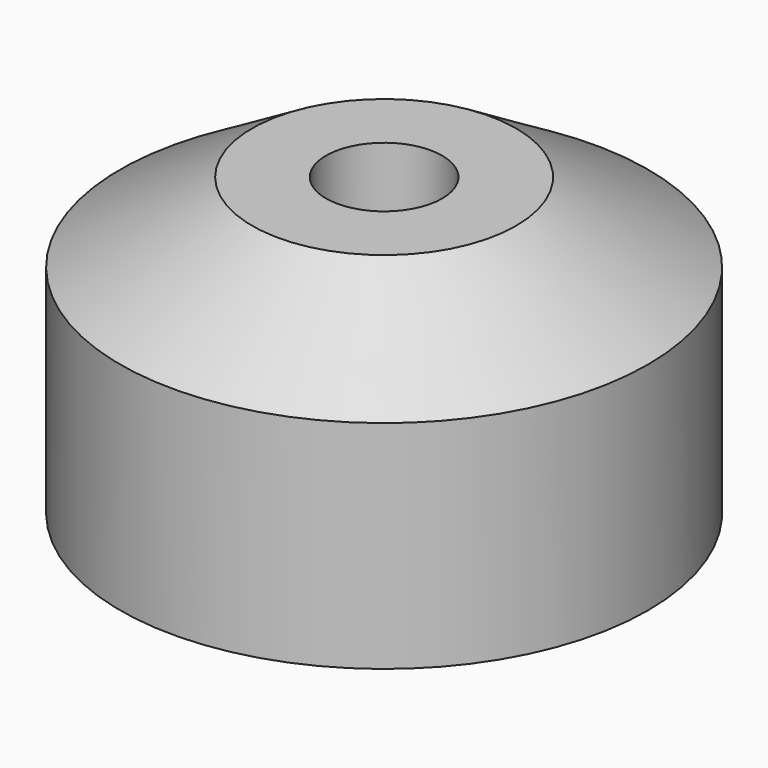
from build123d import *

# Parameters (mm, degrees)
SKETCH_R        = 50
PAD_DEPTH       = 56
SKETCH004_R     = 11
POCKET_DEPTH    = 56.001
SKETCH003_R     = 35
POCKET001_DEPTH = 7
CHAMFER_SIZE2   = 25
CHAMFER_SIZE    = 15
SKETCH005_R     = 3.4
POCKET002_DEPTH = 20
CHAMFER001_SIZE = 1


with BuildPart() as part:
    # Sketch → Pad (new body)
    with BuildSketch(Plane.XY):
        Circle(SKETCH_R)
    extrude(amount=PAD_DEPTH)

    # Sketch004 → Pocket (cut, through all)
    with BuildSketch(Plane.XY):
        Circle(SKETCH004_R)
    extrude(amount=POCKET_DEPTH, mode=Mode.SUBTRACT)

    # Sketch003 → Pocket001 (cut)
    with BuildSketch(Plane(origin=(0, 0, 0), x_dir=(1, 0, 0), z_dir=(0, 0, -1))):
        Circle(SKETCH003_R)
    extrude(amount=-POCKET001_DEPTH, mode=Mode.SUBTRACT)

    # Chamfer
    chamfer_edges = [part.edges().sort_by_distance(p)[0] for p in [
        (-50, 0, 56),
    ]]
    chamfer_side = part.faces().sort_by_distance((-50, 0, 28))[0]
    chamfer(chamfer_edges, length=CHAMFER_SIZE, length2=CHAMFER_SIZE2, reference=chamfer_side)

    # Sketch005 (on Face3 of Chamfer) → Pocket002 (cut)
    with BuildSketch(Plane(origin=(0, 0, 0), x_dir=(1, 0, 0), z_dir=(0, 0, -1))):
        with Locations((0, 41.75)):
            Circle(SKETCH005_R)
        with Locations((36.156561, -20.875)):
            Circle(SKETCH005_R)
        with Locations((-36.156561, -20.875)):
            Circle(SKETCH005_R)
    extrude(amount=-POCKET002_DEPTH, mode=Mode.SUBTRACT)

    # Chamfer001
    chamfer001_edges = [part.edges().sort_by_distance(p)[0] for p in [
        (32.756561, 20.875, 0),
        (-3.4, -41.75, 0),
        (-39.556561, 20.875, 0),
    ]]
    chamfer(chamfer001_edges, length=CHAMFER001_SIZE)


solid = part.part
